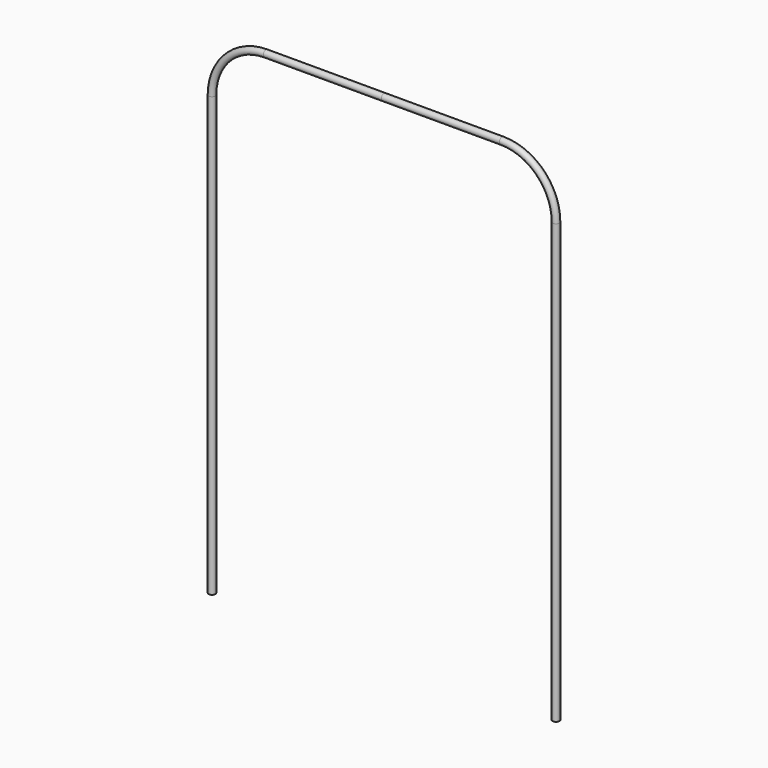
from build123d import *

# Parameters (mm, degrees)
F1_R = 1


with BuildPart() as f2:
    # F2: sweep along a path in F0
    with BuildLine(Plane.XZ) as f2_path:
        Line((0, 0), (-35, 0))
        ThreePointArc((-35, 0), (-45.606602, -4.393398), (-50, -15))
        Line((-50, -15), (-50, -145))
    # F1 (on Right) → F2 (sweep)
    with BuildSketch(Plane.YZ):
        with Locations((0, 1)):
            Circle(F1_R)
    sweep(path=f2_path.line)

    # F3: F2 across plane


with BuildPart() as f2_1:
    add(f2.part)
    add(f2.part.mirror(Plane.YZ))


solid = f2_1.part
